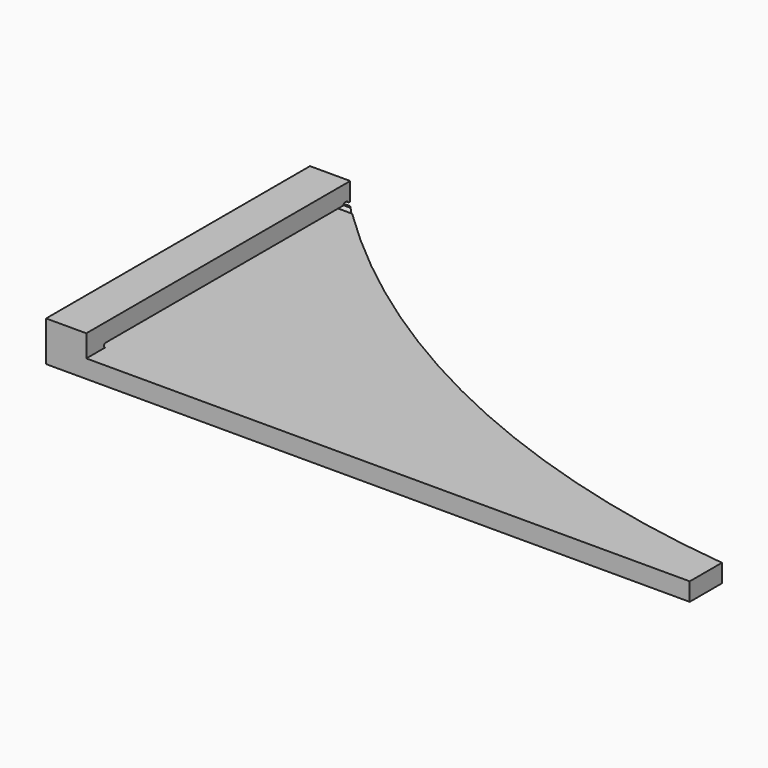
from build123d import *

# Parameters (mm, degrees)
F1_DEPTH = 5
F3_DEPTH = 1000
F4_R     = 0.5
F5_DEPTH = 25
F6_W     = 75
F6_H     = 41
F7_DEPTH = 2.75


with BuildPart() as f1:
    # F0 (on Top) → F1 (new body)
    with BuildSketch(Plane.XY):
        with BuildLine():
            Line((0, 41), (0, 0))
            Line((0, 0), (80, 0))
            Line((80, 0), (80, 5))
            ThreePointArc((80, 5), (39.428626, 16.601304), (5, 41))
            Line((5, 41), (0, 41))
        make_face()
    extrude(amount=F1_DEPTH)

    # F2 (on face) → F3 (cut)
    with BuildSketch(Plane(origin=(0, 0, 0), x_dir=(0, -1, 0), z_dir=(-1, 0, 0))):
        with BuildLine():
            Line((-41, 2.75), (-41, 2.25))
            Line((-41, 2.25), (-3, 2.25))
            ThreePointArc((-3, 2.25), (-2.75, 2.5), (-3, 2.75))
            Line((-3, 2.75), (-41, 2.75))
        make_face()
    extrude(amount=-F3_DEPTH, mode=Mode.SUBTRACT)

    # F4 (on face) → F5 (cut)
    with BuildSketch(Plane(origin=(0, 0, 0), x_dir=(0, -1, 0), z_dir=(-1, 0, 0))):
        with Locations((-40.3, 2.5)):
            Circle(F4_R)
    extrude(amount=-F5_DEPTH, mode=Mode.SUBTRACT)

    # F6 (on face) → F7 (cut)
    with BuildSketch(Plane.XY.offset(5)):
        with Locations((42.5, 20.5)):
            Rectangle(F6_W, F6_H)
    extrude(amount=-F7_DEPTH, mode=Mode.SUBTRACT)


solid = f1.part
